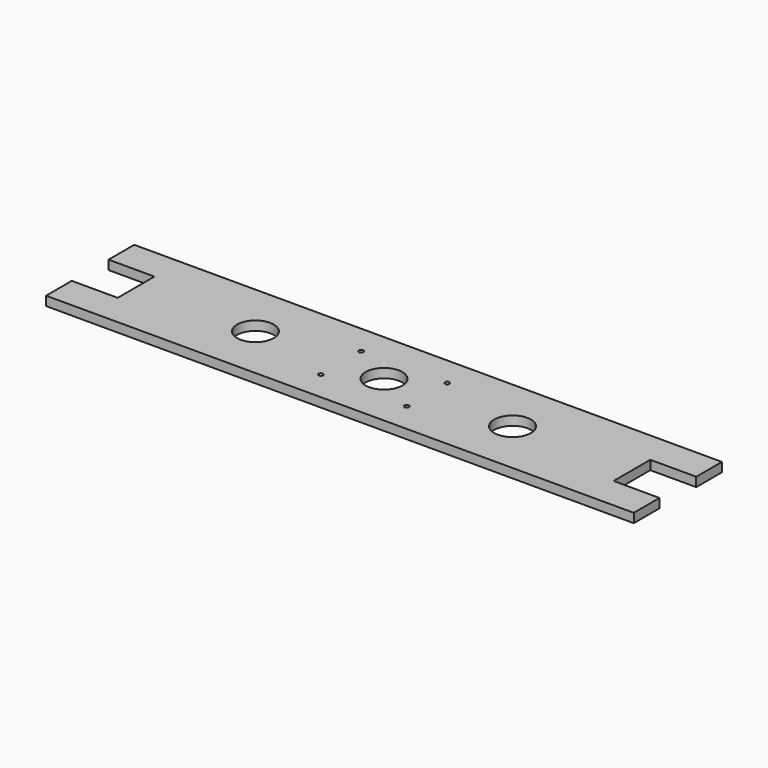
from build123d import *

# Parameters (mm, degrees)
F0_R     = 3.175
F0_R_2   = 25.4
F1_DEPTH = 12.7


with BuildPart() as f1:
    # F0 (on Top) → F1 (new body)
    with BuildSketch(Plane.XY):
        Polygon((406.4, 76.2), (-406.4, 76.2), (-406.4, 31.75), (-342.9, 31.75), (-342.9, -31.75), (-406.4, -31.75), (-406.4, -76.2), (406.4, -76.2), (406.4, -31.75), (342.9, -31.75), (342.9, 31.75), (406.4, 31.75), align=None)
        with Locations((-59.5122, -34.925)):
            Circle(F0_R, mode=Mode.SUBTRACT)
        with Locations((59.5122, -34.925)):
            Circle(F0_R, mode=Mode.SUBTRACT)
        with Locations((-177.8, 0)):
            Circle(F0_R_2, mode=Mode.SUBTRACT)
        Circle(F0_R_2, mode=Mode.SUBTRACT)
        with Locations((-59.5122, 34.925)):
            Circle(F0_R, mode=Mode.SUBTRACT)
        with Locations((177.8, 0)):
            Circle(F0_R_2, mode=Mode.SUBTRACT)
        with Locations((59.5122, 34.925)):
            Circle(F0_R, mode=Mode.SUBTRACT)
    extrude(amount=F1_DEPTH)


solid = f1.part
